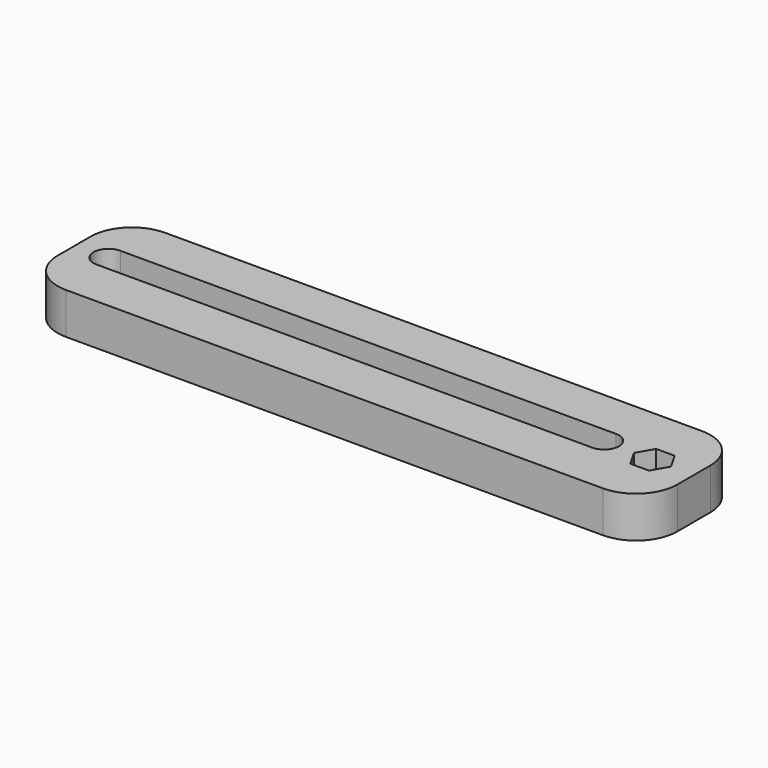
from build123d import *

# Parameters (mm, degrees)
F1_DEPTH = 10
F2_R     = 3
F3_DEPTH = 10.001
F5_DEPTH = 4.7


with BuildPart() as f1:
    # F0 (on Top) → F1 (new body)
    with BuildSketch(Plane.XY):
        with BuildLine():
            ThreePointArc((-75, -5), (-72.071068, -12.071068), (-65, -15))
            Line((-65, -15), (65, -15))
            ThreePointArc((65, -15), (72.071068, -12.071068), (75, -5))
            Line((75, -5), (75, 5))
            ThreePointArc((75, 5), (72.071068, 12.071068), (65, 15))
            Line((65, 15), (-65, 15))
            ThreePointArc((-65, 15), (-72.071068, 12.071068), (-75, 5))
            Line((-75, 5), (-75, -5))
        make_face()
    extrude(amount=F1_DEPTH)

    # F2 (on face) → F3 (cut, through all)
    with BuildSketch(Plane.XY.offset(10)):
        with Locations((65, 0)):
            Circle(F2_R)
        with BuildLine():
            Line((53, 3.953533), (-67, 3.953533))
            ThreePointArc((-67, 3.953533), (-70.6, 0.353533), (-67, -3.246467))
            Line((-67, -3.246467), (53, -3.246467))
            ThreePointArc((53, -3.246467), (56.6, 0.353533), (53, 3.953533))
        make_face()
    extrude(amount=-F3_DEPTH, mode=Mode.SUBTRACT)

    # F4 (on face) → F5 (cut)
    with BuildSketch(Plane.XY.offset(10)):
        Polygon((62.754107, -3.89), (67.245893, -3.89), (69.491785, 0), (67.245893, 3.89), (62.754107, 3.89), (60.508215, 0), align=None)
    extrude(amount=-F5_DEPTH, mode=Mode.SUBTRACT)


solid = f1.part
